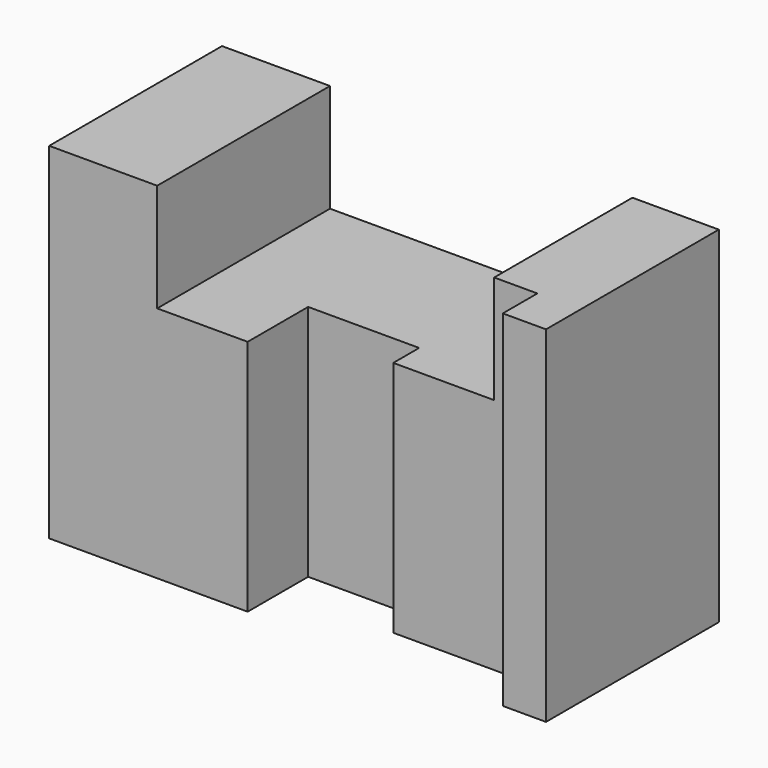
from build123d import *

# Parameters (mm, degrees)
F1_DEPTH = 50
F2_W     = 25.703896
F2_H     = 55
F3_DEPTH = 17.5
F4_DEPTH = 10


with BuildPart() as f1:
    # F0 (on Front) → F1 (new body)
    with BuildSketch(Plane.XZ):
        Polygon((25, 80), (0, 80), (0, 0), (115, 0), (115, 80), (95, 80), (95, 55), (25, 55), align=None)
    extrude(amount=F1_DEPTH)

    # F2 (on face) → F3 (cut, symmetric)
    with BuildSketch(Plane.XZ.offset(50)):
        with Locations((58.791665, 27.5)):
            Rectangle(F2_W, F2_H)
    extrude(amount=F3_DEPTH, both=True, mode=Mode.SUBTRACT)

    # F2 (on face) → F4 (cut)
    with BuildSketch(Plane.XZ.offset(50)):
        Polygon((95, 55), (71.643613, 55), (71.643613, 0), (105, 0), (105, 80), (95, 80), align=None)
    extrude(amount=-F4_DEPTH, mode=Mode.SUBTRACT)


solid = f1.part
